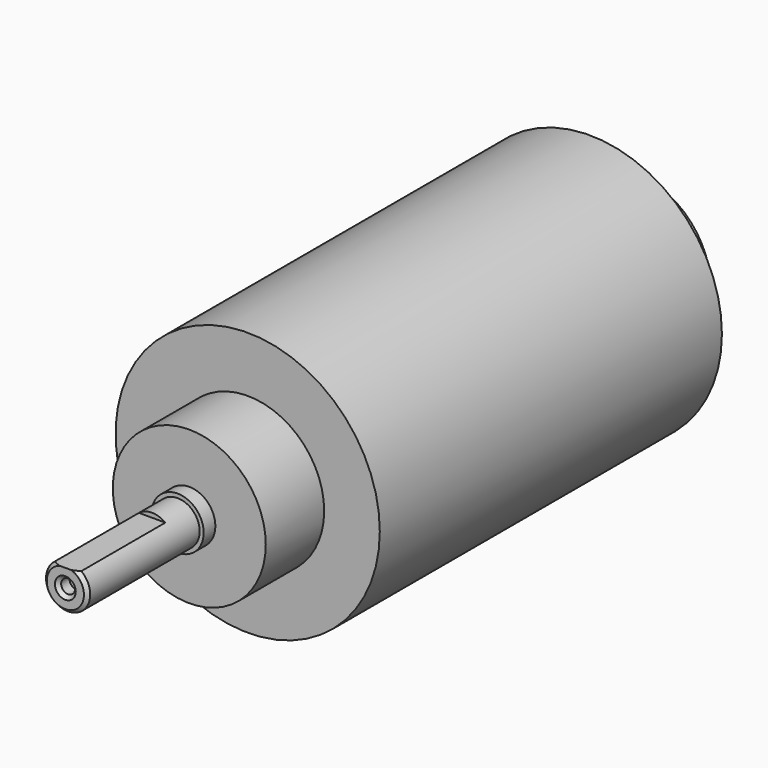
from build123d import *

# Parameters (mm, degrees)
SKETCH025_R     = 19
PAD012_DEPTH    = 61.5
SKETCH026_R     = 11
PAD013_DEPTH    = 10.5
SKETCH027_R     = 11
PAD014_DEPTH    = 8
SKETCH028_R     = 3.75
PAD015_DEPTH    = 2
SKETCH029_R     = 1
POCKET011_DEPTH = 2
CHAMFER002_SIZE = 0.5
SKETCH030_R     = 3.75
PAD016_DEPTH    = 2.1
SKETCH031_R     = 3.175
PAD017_DEPTH    = 20.18
POCKET012_DEPTH = 15.6
SKETCH033_R     = 1
POCKET013_DEPTH = 2
CHAMFER003_SIZE = 0.5


with BuildPart() as part:
    # Sketch025 → Pad012 (new body)
    with BuildSketch(Plane.XZ):
        Circle(SKETCH025_R)
    extrude(amount=-PAD012_DEPTH)

    # Sketch026 (on Face2 of Pad012) → Pad013 (join)
    with BuildSketch(Plane.XZ):
        Circle(SKETCH026_R)
    extrude(amount=PAD013_DEPTH)

    # Sketch027 (on Face3 of Pad013) → Pad014 (join)
    with BuildSketch(Plane(origin=(0, 61.5, 0), x_dir=(1, 0, 0), z_dir=(0, 1, 0))):
        Circle(SKETCH027_R)
    extrude(amount=PAD014_DEPTH)

    # Sketch028 (on Face7 of Pad014) → Pad015 (join)
    with BuildSketch(Plane(origin=(0, 69.5, 0), x_dir=(1, 0, 0), z_dir=(0, 1, 0))):
        Circle(SKETCH028_R)
    extrude(amount=PAD015_DEPTH)

    # Sketch029 (on Face9 of Pad015) → Pocket011 (cut)
    with BuildSketch(Plane(origin=(0, 71.5, 0), x_dir=(1, 0, 0), z_dir=(0, 1, 0))):
        Circle(SKETCH029_R)
    extrude(amount=-POCKET011_DEPTH, mode=Mode.SUBTRACT)

    # Chamfer002
    chamfer002_edges = [part.edges().sort_by_distance(p)[0] for p in [
        (-3.75, 71.5, 0),
        (-1, 71.5, 0),
    ]]
    chamfer(chamfer002_edges, length=CHAMFER002_SIZE)

    # Sketch030 (on Face13 of Chamfer002) → Pad016 (join)
    with BuildSketch(Plane.XZ.offset(10.5)):
        Circle(SKETCH030_R)
    extrude(amount=PAD016_DEPTH)

    # Sketch031 (on Face15 of Pad016) → Pad017 (join)
    with BuildSketch(Plane.XZ.offset(12.6)):
        Circle(SKETCH031_R)
    extrude(amount=PAD017_DEPTH)

    # Sketch032 (on Face17 of Pad017) → Pocket012 (cut)
    with BuildSketch(Plane.XZ.offset(32.78)):
        with BuildLine():
            Line((-1.898315, 2.545), (1.898315, 2.545))
            ThreePointArc((1.898315, 2.545), (0, 3.175), (-1.898315, 2.545))
        make_face()
    extrude(amount=-POCKET012_DEPTH, mode=Mode.SUBTRACT)

    # Sketch033 (on Face17 of Pocket012) → Pocket013 (cut)
    with BuildSketch(Plane.XZ.offset(32.78)):
        Circle(SKETCH033_R)
    extrude(amount=-POCKET013_DEPTH, mode=Mode.SUBTRACT)

    # Chamfer003
    chamfer003_edges = [part.edges().sort_by_distance(p)[0] for p in [
        (-1, -32.78, 0),
        (-1.423635, -32.78, -2.837937),
        (2.837937, -32.78, 1.423635),
    ]]
    chamfer(chamfer003_edges, length=CHAMFER003_SIZE)


with BuildPart() as part_1:
    # Body010 placement: moved
    add(part.part.moved(Location((0, 11, 0))))


solid = part_1.part
